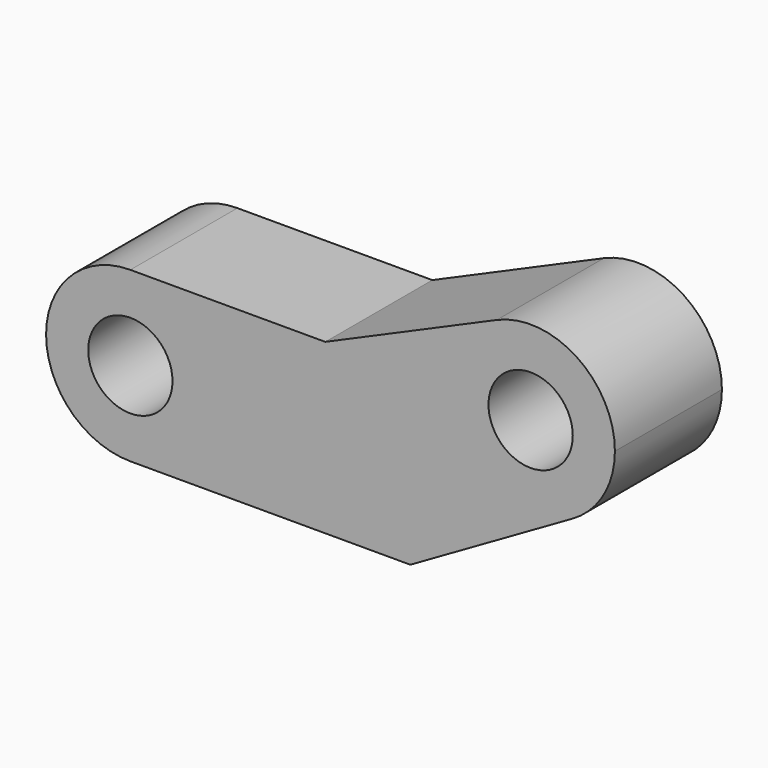
from build123d import *

# Parameters (mm, degrees)
F1_DEPTH = 12.7
F2_R     = 4.0005
F3_DEPTH = 12.7


with BuildPart() as f1:
    # F0 (on Front) → F1 (new body)
    with BuildSketch(Plane.XZ):
        with BuildLine():
            ThreePointArc((3.989522, 0.864604), (1.185338, -0.11271), (-1.782134, 0))
            Line((-1.782134, 0), (-29.999, 0))
            ThreePointArc((-29.999, 0), (-32.342439, -5.657561), (-38, -8.001))
            Line((-38, -8.001), (-11.422469, -8.001))
            Line((-11.422469, -8.001), (3.989522, 0.864604))
        make_face()
        with BuildLine():
            Line((-29.999, 0), (-1.782134, 0))
            ThreePointArc((-1.782134, 0), (-7.965707, 7.049325), (-3.207935, 15.129744))
            Line((-3.207935, 15.129744), (-19.496256, 8.001))
            Line((-19.496256, 8.001), (-38, 8.001))
            ThreePointArc((-38, 8.001), (-32.342439, 5.657561), (-29.999, 0))
        make_face()
        with BuildLine():
            ThreePointArc((-3.207935, 15.129744), (-7.965707, 7.049325), (-1.782134, 0))
            ThreePointArc((-1.782134, 0), (1.185338, -0.11271), (3.989522, 0.864604))
            ThreePointArc((3.989522, 0.864604), (6.925899, 3.794015), (8.001, 7.8))
            ThreePointArc((8.001, 7.8), (4.378888, 14.496368), (-3.207935, 15.129744))
        make_face()
        with BuildLine():
            ThreePointArc((-38, -8.001), (-32.342439, -5.657561), (-29.999, 0))
            ThreePointArc((-29.999, 0), (-32.342439, 5.657561), (-38, 8.001))
            ThreePointArc((-38, 8.001), (-46.001, 0), (-38, -8.001))
        make_face()
    extrude(amount=F1_DEPTH)

    # F2 (on face) → F3 (cut, through all)
    with BuildSketch(Plane.XZ.offset(12.7)):
        with Locations((-38, 0)):
            Circle(F2_R)
        with Locations((0, 7.8)):
            Circle(F2_R)
    extrude(amount=-F3_DEPTH, mode=Mode.SUBTRACT)


solid = f1.part
